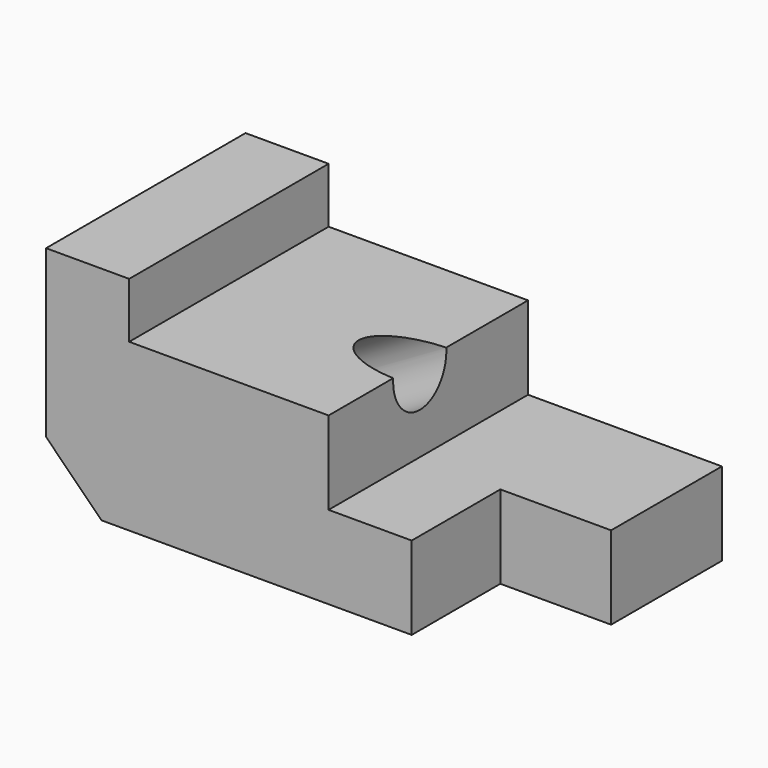
from build123d import *

# Parameters (mm, degrees)
F1_DEPTH = 22.5
F2_W     = 10
F2_H     = 10
F3_DEPTH = 7.5
F4_SIZE  = 5
F6_R     = 3
F7_DEPTH = 29.584648


with BuildPart() as f1:
    # F0 (on Front) → F1 (new body)
    with BuildSketch(Plane.XZ):
        Polygon((0, 20), (0, 0), (43, 0), (43, 7.5), (25.5, 7.5), (25.5, 15), (7.5, 15), (7.5, 20), align=None)
    extrude(amount=-F1_DEPTH)

    # F2 (on face) → F3 (cut, through all)
    with BuildSketch(Plane.XY.offset(7.5)):
        with Locations((38, 5)):
            Rectangle(F2_W, F2_H)
    extrude(amount=-F3_DEPTH, mode=Mode.SUBTRACT)

    # F4
    f4_edges = [f1.edges().sort_by_distance(p)[0] for p in [
        (0, 11.25, 0),
    ]]
    chamfer(f4_edges, length=F4_SIZE)

    # F6 (on face) → F7 (cut, through all)
    with BuildSketch(Plane(origin=(25.620191, 0, 14.791824), x_dir=(0, 1, 0), z_dir=(0.866025, 0, 0.5))):
        with Locations((10.281982, 0)):
            Circle(F6_R)
    extrude(amount=-F7_DEPTH, mode=Mode.SUBTRACT)


solid = f1.part
